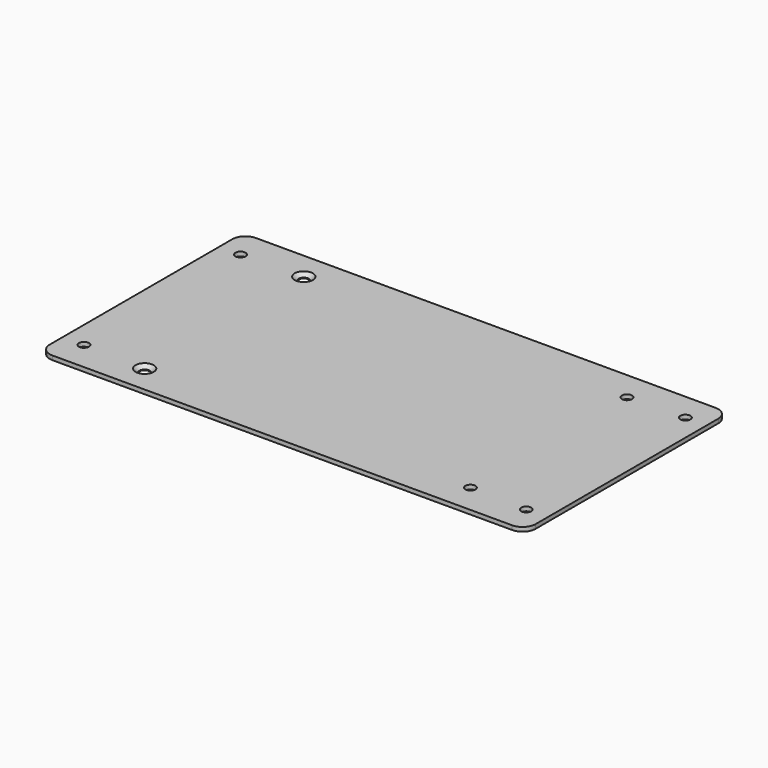
from build123d import *

# Parameters (mm, degrees)
F0_W           = 236.5375
F0_H           = 123.825
F1_DEPTH       = 2.032
F2_R           = 6.35
F3_D           = 4.9149
F5_D           = 4.9149
F5_CSINK_D     = 8.89
F5_CSINK_ANGLE = 100
F6_D           = 4.9149


with BuildPart() as f1:
    # F0 (on Top) → F1 (new body)
    with BuildSketch(Plane.XY):
        Rectangle(F0_W, F0_H)
    extrude(amount=F1_DEPTH)

    # F2
    f2_edges = [f1.edges().sort_by_distance(p)[0] for p in [
        (118.26875, -61.9125, 1.016),
        (118.26875, 61.9125, 1.016),
        (-118.26875, -61.9125, 1.016),
        (-118.26875, 61.9125, 1.016),
    ]]
    fillet(f2_edges, radius=F2_R)

    # F3 (through all)
    with Locations(Plane(origin=(0, 0, 0), x_dir=(1, 0, 0), z_dir=(0, 0, -1))):
        with Locations((-107.95, -47.625), (-107.95, 47.625), (80.16875, 47.625), (80.16875, -47.625)):
            Hole(F3_D / 2)

    # F5 (through all)
    with Locations(Plane.XY.offset(2.032)):
        with Locations((-77.7875, 48.41875), (-77.7875, -48.41875)):
            CounterSinkHole(F5_D / 2, F5_CSINK_D / 2, counter_sink_angle=F5_CSINK_ANGLE)

    # F6 (through all)
    with Locations(Plane.XY.offset(2.032)):
        with Locations((107.95, 48.41875), (107.95, -48.41875)):
            Hole(F6_D / 2)


solid = f1.part
